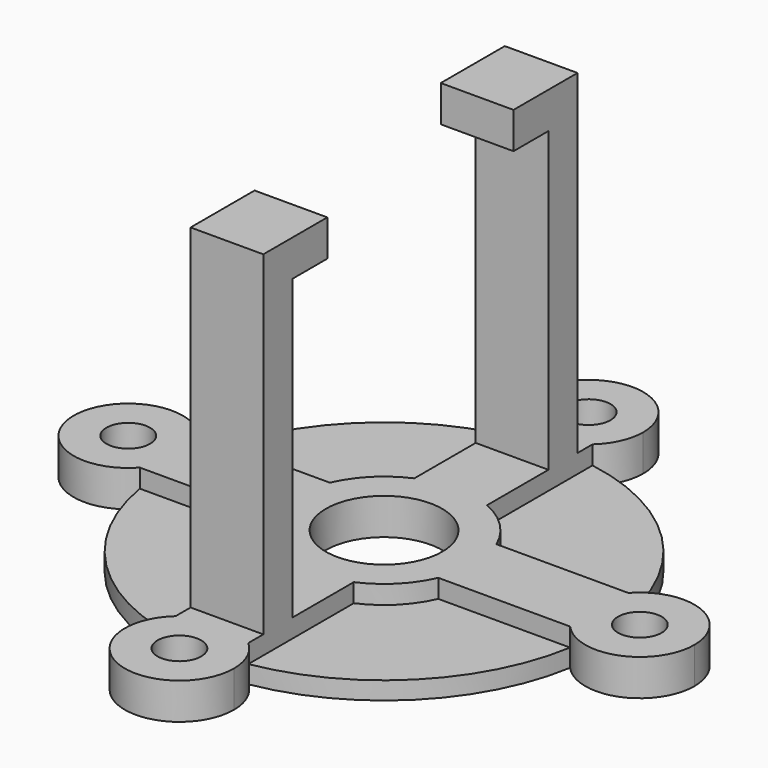
from build123d import *

# Parameters (mm, degrees)
F0_R     = 1.905
F1_DEPTH = 3.175
F2_DEPTH = 1.55575
F0_W     = 6.35
F0_H     = 3.175
F3_DEPTH = 32.385
F5_W     = 6.35
F5_H     = 3.175
F6_DEPTH = 3.81
F4_W     = 6.35
F4_H     = 3.175
F7_DEPTH = 3.81


with BuildPart() as f1:
    # F0 (on Top) → F1 (new body)
    with BuildSketch(Plane.XY):
        with BuildLine():
            ThreePointArc((18.7835533113, -3.175), (17.5708112256, 0), (18.7835533113, 3.175))
            Line((18.7835533113, 3.175), (7.2748389157, 3.175))
            ThreePointArc((7.2748389157, 3.175), (7.7700688589, 1.6217077968), (7.9375, 0))
            ThreePointArc((7.9375, 0), (7.7700688589, -1.6217077968), (7.2748389157, -3.175))
            Line((7.2748389157, -3.175), (18.7835533113, -3.175))
        make_face()
        with BuildLine():
            ThreePointArc((18.7835533113, -3.175), (18.9832714591, -1.5930802583), (19.05, 0))
            ThreePointArc((19.05, 0), (18.9832714591, 1.5930802583), (18.7835533113, 3.175))
            ThreePointArc((18.7835533113, 3.175), (17.5708112256, 0), (18.7835533113, -3.175))
        make_face()
        with BuildLine():
            ThreePointArc((18.7835533113, 3.175), (18.9832714591, 1.5930802583), (19.05, 0))
            ThreePointArc((19.05, 0), (18.9832714591, -1.5930802583), (18.7835533113, -3.175))
            ThreePointArc((18.7835533113, -3.175), (24.0326764282, -4.4489958596), (27.0958112256, 0))
            ThreePointArc((27.0958112256, 0), (24.0326764282, 4.4489958596), (18.7835533113, 3.175))
        make_face()
        with Locations((22.3333112256, 0)):
            Circle(F0_R, mode=Mode.SUBTRACT)
        with BuildLine():
            ThreePointArc((-3.175, 7.2748389157), (0, 7.9375), (3.175, 7.2748389157))
            Line((3.175, 7.2748389157), (3.175, 13.97))
            Line((3.175, 13.97), (-3.175, 13.97))
            Line((-3.175, 13.97), (-3.175, 7.2748389157))
        make_face()
        with BuildLine():
            ThreePointArc((7.9375, 0), (7.7700688589, 1.6217077968), (7.2748389157, 3.175))
            ThreePointArc((7.2748389157, 3.175), (5.6126600757, 5.6126600757), (3.175, 7.2748389157))
            ThreePointArc((3.175, 7.2748389157), (0, 7.9375), (-3.175, 7.2748389157))
            ThreePointArc((-3.175, 7.2748389157), (-5.6126600757, 5.6126600757), (-7.2748389157, 3.175))
            ThreePointArc((-7.2748389157, 3.175), (-7.9375, 0), (-7.2748389157, -3.175))
            ThreePointArc((-7.2748389157, -3.175), (-5.6126600757, -5.6126600757), (-3.175, -7.2748389157))
            ThreePointArc((-3.175, -7.2748389157), (0, -7.9375), (3.175, -7.2748389157))
            ThreePointArc((3.175, -7.2748389157), (5.6126600757, -5.6126600757), (7.2748389157, -3.175))
            ThreePointArc((7.2748389157, -3.175), (7.7700688589, -1.6217077968), (7.9375, 0))
        make_face()
        with BuildLine():
            ThreePointArc((3.5921024484, 3.5921024484), (4.6933080252, 1.9440318364), (5.08, 0))
            ThreePointArc((5.08, 0), (-4.6933080252, -1.9440318364), (3.5921024484, 3.5921024484))
        make_face(mode=Mode.SUBTRACT)
        with BuildLine():
            Line((-7.2748389157, 3.175), (-18.7835533113, 3.175))
            ThreePointArc((-18.7835533113, 3.175), (-17.8843153661, 1.6993652025), (-17.5708112256, 0))
            ThreePointArc((-17.5708112256, 0), (-17.8843153661, -1.6993652025), (-18.7835533113, -3.175))
            Line((-18.7835533113, -3.175), (-7.2748389157, -3.175))
            ThreePointArc((-7.2748389157, -3.175), (-7.9375, 0), (-7.2748389157, 3.175))
        make_face()
        with BuildLine():
            Line((3.175, -13.97), (3.175, -7.2748389157))
            ThreePointArc((3.175, -7.2748389157), (0, -7.9375), (-3.175, -7.2748389157))
            Line((-3.175, -7.2748389157), (-3.175, -13.97))
            Line((-3.175, -13.97), (3.175, -13.97))
        make_face()
        with BuildLine():
            ThreePointArc((-17.5708112256, 0), (-17.8843153661, 1.6993652025), (-18.7835533113, 3.175))
            ThreePointArc((-18.7835533113, 3.175), (-19.05, 0), (-18.7835533113, -3.175))
            ThreePointArc((-18.7835533113, -3.175), (-17.8843153661, -1.6993652025), (-17.5708112256, 0))
        make_face()
        with BuildLine():
            ThreePointArc((-18.7835533113, -3.175), (-19.05, 0), (-18.7835533113, 3.175))
            ThreePointArc((-18.7835533113, 3.175), (-27.0958112256, 0), (-18.7835533113, -3.175))
        make_face()
        with Locations((-22.3333112256, 0)):
            Circle(F0_R, mode=Mode.SUBTRACT)
    extrude(amount=F1_DEPTH)



with BuildPart() as f1b:
    # F0 (on Top) → F1, piece 2 (new body)
    with BuildSketch(Plane.XY):
        with BuildLine():
            Line((3.175, 17.145), (3.175, 18.7835533113))
            ThreePointArc((3.175, 18.7835533113), (0, 17.5708112256), (-3.175, 18.7835533113))
            Line((-3.175, 18.7835533113), (-3.175, 17.145))
            Line((-3.175, 17.145), (3.175, 17.145))
        make_face()
        with BuildLine():
            ThreePointArc((-3.175, 18.7835533113), (0, 19.05), (3.175, 18.7835533113))
            ThreePointArc((3.175, 18.7835533113), (4.3475478002, 20.3890287423), (4.7625, 22.3333112256))
            ThreePointArc((4.7625, 22.3333112256), (-1.9442824833, 26.6808590258), (-3.175, 18.7835533113))
        make_face()
        with Locations((0, 22.3333112256)):
            Circle(F0_R, mode=Mode.SUBTRACT)
        with BuildLine():
            ThreePointArc((-3.175, 18.7835533113), (0, 17.5708112256), (3.175, 18.7835533113))
            ThreePointArc((3.175, 18.7835533113), (0, 19.05), (-3.175, 18.7835533113))
        make_face()
    extrude(amount=F1_DEPTH)


with BuildPart() as f1c:
    # F0 (on Top) → F1, piece 3 (new body)
    with BuildSketch(Plane.XY):
        with BuildLine():
            ThreePointArc((-3.175, -18.7835533113), (0, -17.5708112256), (3.175, -18.7835533113))
            Line((3.175, -18.7835533113), (3.175, -17.145))
            Line((3.175, -17.145), (-3.175, -17.145))
            Line((-3.175, -17.145), (-3.175, -18.7835533113))
        make_face()
        with BuildLine():
            ThreePointArc((-3.175, -18.7835533113), (0, -19.05), (3.175, -18.7835533113))
            ThreePointArc((3.175, -18.7835533113), (0, -17.5708112256), (-3.175, -18.7835533113))
        make_face()
        with BuildLine():
            ThreePointArc((4.7625, -22.3333112256), (4.3475478002, -20.3890287423), (3.175, -18.7835533113))
            ThreePointArc((3.175, -18.7835533113), (0, -19.05), (-3.175, -18.7835533113))
            ThreePointArc((-3.175, -18.7835533113), (-1.9442824833, -26.6808590258), (4.7625, -22.3333112256))
        make_face()
        with Locations((0, -22.3333112256)):
            Circle(F0_R, mode=Mode.SUBTRACT)
    extrude(amount=F1_DEPTH)


with BuildPart() as f1_1:
    add(f1.part)

    add(f1b.part)  # F2 merges F1b

    add(f1c.part)  # F2 merges F1c
    # F0 (on Top) → F2 (join)
    with BuildSketch(Plane.XY):
        with BuildLine():
            Line((7.2748389157, 3.175), (18.7835533113, 3.175))
            ThreePointArc((18.7835533113, 3.175), (13.4703841816, 13.4703841816), (3.175, 18.7835533113))
            Line((3.175, 18.7835533113), (3.175, 17.145))
            Line((3.175, 17.145), (3.175, 13.97))
            Line((3.175, 13.97), (3.175, 7.2748389157))
            ThreePointArc((3.175, 7.2748389157), (5.6126600757, 5.6126600757), (7.2748389157, 3.175))
        make_face()
        with BuildLine():
            ThreePointArc((3.175, -18.7835533113), (13.4703841816, -13.4703841816), (18.7835533113, -3.175))
            Line((18.7835533113, -3.175), (7.2748389157, -3.175))
            ThreePointArc((7.2748389157, -3.175), (5.6126600757, -5.6126600757), (3.175, -7.2748389157))
            Line((3.175, -7.2748389157), (3.175, -13.97))
            Line((3.175, -13.97), (3.175, -17.145))
            Line((3.175, -17.145), (3.175, -18.7835533113))
        make_face()
        with BuildLine():
            Line((-3.175, 17.145), (-3.175, 18.7835533113))
            ThreePointArc((-3.175, 18.7835533113), (-13.4703841816, 13.4703841816), (-18.7835533113, 3.175))
            Line((-18.7835533113, 3.175), (-7.2748389157, 3.175))
            ThreePointArc((-7.2748389157, 3.175), (-5.6126600757, 5.6126600757), (-3.175, 7.2748389157))
            Line((-3.175, 7.2748389157), (-3.175, 13.97))
            Line((-3.175, 13.97), (-3.175, 17.145))
        make_face()
        with BuildLine():
            ThreePointArc((-18.7835533113, -3.175), (-13.4703841816, -13.4703841816), (-3.175, -18.7835533113))
            Line((-3.175, -18.7835533113), (-3.175, -17.145))
            Line((-3.175, -17.145), (-3.175, -13.97))
            Line((-3.175, -13.97), (-3.175, -7.2748389157))
            ThreePointArc((-3.175, -7.2748389157), (-5.6126600757, -5.6126600757), (-7.2748389157, -3.175))
            Line((-7.2748389157, -3.175), (-18.7835533113, -3.175))
        make_face()
    extrude(amount=F2_DEPTH)

    # F0 (on Top) → F3 (join)
    with BuildSketch(Plane.XY):
        with Locations((0, -15.5575)):
            Rectangle(F0_W, F0_H)
        with Locations((0, 15.5575)):
            Rectangle(F0_W, F0_H)
    extrude(amount=F3_DEPTH)

    # F5 (on face) → F6 (join)
    with BuildSketch(Plane(origin=(0, -13.97, 0), x_dir=(-1, 0, 0), z_dir=(0, 1, 0))):
        with Locations((0, 30.7975)):
            Rectangle(F5_W, F5_H)
    extrude(amount=F6_DEPTH)

    # F4 (on face) → F7 (join)
    with BuildSketch(Plane.XZ.offset(-13.97)):
        with Locations((0, 30.7975)):
            Rectangle(F4_W, F4_H)
    extrude(amount=F7_DEPTH)


solid = f1_1.part
